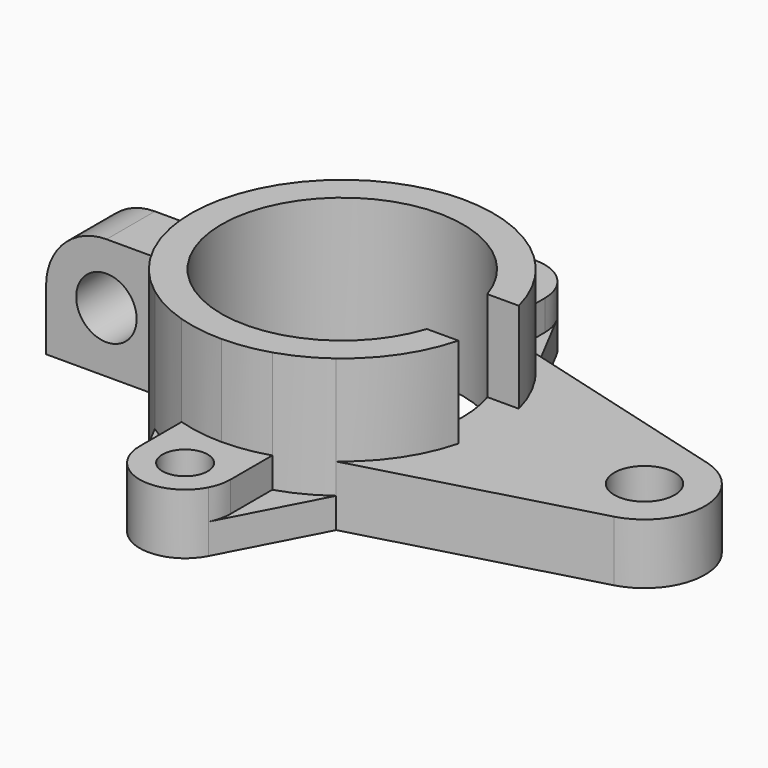
from build123d import *

# Parameters (mm, degrees)
F0_R      = 25.4
F1_DEPTH  = 31.75
F0_R_2    = 4.7625
F0_R_3    = 6.35
F2_DEPTH  = 12.7
F3_DEPTH  = 6.35
F4_DEPTH  = 25.4
F5_R      = 6.35
F6_DEPTH  = 6.35
F7_DEPTH  = 6.35
F8_R      = 12.7
F10_DEPTH = 31.75
F11_DEPTH = 63.5


with BuildPart() as f1:
    # F0 (on Top) → F1 (new body)
    with BuildSketch(Plane.XY):
        with BuildLine():
            ThreePointArc((19.05, -25.4), (28.3980633142, -14.1990316571), (31.75, 0))
            ThreePointArc((31.75, 0), (28.3980633142, 14.1990316571), (19.05, 25.4))
            ThreePointArc((19.05, 25.4), (14.4949901866, 28.2481461249), (9.525, 30.287569645))
            ThreePointArc((9.525, 30.287569645), (4.8183069939, 31.3822627883), (8.43e-08, 31.75))
            ThreePointArc((8.43e-08, 31.75), (-4.8183069106, 31.3822628011), (-9.525, 30.287569645))
            ThreePointArc((-9.525, 30.287569645), (-14.4949901866, 28.2481461249), (-19.05, 25.4))
            ThreePointArc((-19.05, 25.4), (-26.8271299333, 16.9813898), (-31.1085197333, 6.35))
            ThreePointArc((-31.1085197333, 6.35), (-31.75, 0), (-31.1085197333, -6.35))
            ThreePointArc((-31.1085197333, -6.35), (-26.8271299333, -16.9813898), (-19.05, -25.4))
            ThreePointArc((-19.05, -25.4), (-14.4949901866, -28.2481461249), (-9.525, -30.287569645))
            ThreePointArc((-9.525, -30.287569645), (-4.8183069522, -31.3822627947), (0, -31.75))
            ThreePointArc((0, -31.75), (4.8183069522, -31.3822627947), (9.525, -30.287569645))
            ThreePointArc((9.525, -30.287569645), (14.4949901866, -28.2481461249), (19.05, -25.4))
        make_face()
        Circle(F0_R, mode=Mode.SUBTRACT)
    extrude(amount=F1_DEPTH)

    # F0 (on Top) → F2 (join)
    with BuildSketch(Plane.XY):
        with BuildLine():
            ThreePointArc((9.525, 41.275), (9.2499372193, 43.5475066424), (8.4406353932, 45.6887624719))
            ThreePointArc((8.4406353932, 45.6887624719), (0, 50.8), (-8.4406353932, 45.6887624719))
            ThreePointArc((-8.4406353932, 45.6887624719), (-9.2499372193, 43.5475066424), (-9.525, 41.275))
            ThreePointArc((-9.525, 41.275), (-6.735192061, 34.5398078794), (8.43e-08, 31.75))
            ThreePointArc((8.43e-08, 31.75), (6.7351921206, 34.539807939), (9.525, 41.275))
        make_face()
        with Locations((0, 41.275)):
            Circle(F0_R_2, mode=Mode.SUBTRACT)
        with BuildLine():
            ThreePointArc((8.43e-08, 31.75), (4.8183069939, 31.3822627883), (9.525, 30.287569645))
            Line((9.525, 30.287569645), (9.525, 41.275))
            ThreePointArc((9.525, 41.275), (6.7351921206, 34.539807939), (8.43e-08, 31.75))
        make_face()
        with BuildLine():
            Line((9.525, -41.275), (9.525, -30.287569645))
            ThreePointArc((9.525, -30.287569645), (4.8183069522, -31.3822627947), (0, -31.75))
            ThreePointArc((0, -31.75), (6.7351920908, -34.5398079092), (9.525, -41.275))
        make_face()
        with BuildLine():
            ThreePointArc((-9.525, -41.275), (-6.7351920908, -34.5398079092), (0, -31.75))
            ThreePointArc((0, -31.75), (-4.8183069522, -31.3822627947), (-9.525, -30.287569645))
            Line((-9.525, -30.287569645), (-9.525, -41.275))
        make_face()
        with BuildLine():
            ThreePointArc((-8.4406353932, -45.6887624719), (0, -50.8), (8.4406353932, -45.6887624719))
            ThreePointArc((8.4406353932, -45.6887624719), (9.2499372193, -43.5475066424), (9.525, -41.275))
            ThreePointArc((9.525, -41.275), (6.7351920908, -34.5398079092), (0, -31.75))
            ThreePointArc((0, -31.75), (-6.7351920908, -34.5398079092), (-9.525, -41.275))
            ThreePointArc((-9.525, -41.275), (-9.2499372193, -43.5475066424), (-8.4406353932, -45.6887624719))
        make_face()
        with Locations((0, -41.275)):
            Circle(F0_R_2, mode=Mode.SUBTRACT)
        with BuildLine():
            ThreePointArc((-9.525, 30.287569645), (-4.8183069106, 31.3822628011), (8.43e-08, 31.75))
            ThreePointArc((8.43e-08, 31.75), (-6.735192061, 34.5398078794), (-9.525, 41.275))
            Line((-9.525, 41.275), (-9.525, 30.287569645))
        make_face()
        with BuildLine():
            ThreePointArc((19.05, 25.4), (28.3980633142, 14.1990316571), (31.75, 0))
            ThreePointArc((31.75, 0), (28.3980633142, -14.1990316571), (19.05, -25.4))
            Line((19.05, -25.4), (66.8686259006, -12.245095326))
            ThreePointArc((66.8686259006, -12.245095326), (76.2, 0), (66.8686259006, 12.245095326))
            Line((66.8686259006, 12.245095326), (19.05, 25.4))
        make_face()
        with Locations((63.5, 0)):
            Circle(F0_R_3, mode=Mode.SUBTRACT)
    extrude(amount=F2_DEPTH)

    # F0 (on Top) → F3 (join)
    with BuildSketch(Plane.XY):
        with BuildLine():
            ThreePointArc((-9.525, 41.275), (-9.2499372193, 43.5475066424), (-8.4406353932, 45.6887624719))
            Line((-8.4406353932, 45.6887624719), (-19.05, 25.4))
            ThreePointArc((-19.05, 25.4), (-14.4949901866, 28.2481461249), (-9.525, 30.287569645))
            Line((-9.525, 30.287569645), (-9.525, 41.275))
        make_face()
        with BuildLine():
            ThreePointArc((9.525, 30.287569645), (14.4949901866, 28.2481461249), (19.05, 25.4))
            Line((19.05, 25.4), (8.4406353932, 45.6887624719))
            ThreePointArc((8.4406353932, 45.6887624719), (9.2499372193, 43.5475066424), (9.525, 41.275))
            Line((9.525, 41.275), (9.525, 30.287569645))
        make_face()
        with BuildLine():
            Line((8.4406353932, -45.6887624719), (19.05, -25.4))
            ThreePointArc((19.05, -25.4), (14.4949901866, -28.2481461249), (9.525, -30.287569645))
            Line((9.525, -30.287569645), (9.525, -41.275))
            ThreePointArc((9.525, -41.275), (9.2499372193, -43.5475066424), (8.4406353932, -45.6887624719))
        make_face()
        with BuildLine():
            Line((-19.05, -25.4), (-8.4406353932, -45.6887624719))
            ThreePointArc((-8.4406353932, -45.6887624719), (-9.2499372193, -43.5475066424), (-9.525, -41.275))
            Line((-9.525, -41.275), (-9.525, -30.287569645))
            ThreePointArc((-9.525, -30.287569645), (-14.4949901866, -28.2481461249), (-19.05, -25.4))
        make_face()
    extrude(amount=F3_DEPTH)

    # F0 (on Top) → F4 (join)
    with BuildSketch(Plane.XY):
        with BuildLine():
            ThreePointArc((-31.1085197333, -6.35), (-31.75, 0), (-31.1085197333, 6.35))
            Line((-31.1085197333, 6.35), (-57.15, 6.35))
            Line((-57.15, 6.35), (-57.15, 0))
            Line((-57.15, 0), (-57.15, -6.35))
            Line((-57.15, -6.35), (-31.1085197333, -6.35))
        make_face()
    extrude(amount=F4_DEPTH)

    # F5 (on Front) → F6 (cut, symmetric)
    with BuildSketch(Plane.XZ):
        with Locations((-44.4733425975, 12.6999998465)):
            Circle(F5_R)
    extrude(amount=F6_DEPTH, both=True, mode=Mode.SUBTRACT)

    # F5 (on Front) → F7 (cut, symmetric)
    with BuildSketch(Plane.XZ):
        with Locations((-44.4733425975, 12.6999998465)):
            Circle(F5_R)
    extrude(amount=F7_DEPTH, both=True, mode=Mode.SUBTRACT)

    # F8
    f8_edges = [f1.edges().sort_by_distance(p)[0] for p in [
        (-57.15, 0, 25.4),
    ]]
    fillet(f8_edges, radius=F8_R)

    # F9 (on Right) → F10 (cut)
    with BuildSketch(Plane.YZ):
        Polygon((0, 31.75), (-7.9375, 31.75), (-7.9375, 12.7), (7.9375, 12.7), (7.9375, 31.75), align=None)
    extrude(amount=F10_DEPTH, mode=Mode.SUBTRACT)

    # F9 (on Right) → F11 (cut)
    with BuildSketch(Plane.YZ):
        Polygon((0, 31.75), (-7.9375, 31.75), (-7.9375, 12.7), (7.9375, 12.7), (7.9375, 31.75), align=None)
    extrude(amount=F11_DEPTH, mode=Mode.SUBTRACT)


solid = f1.part
